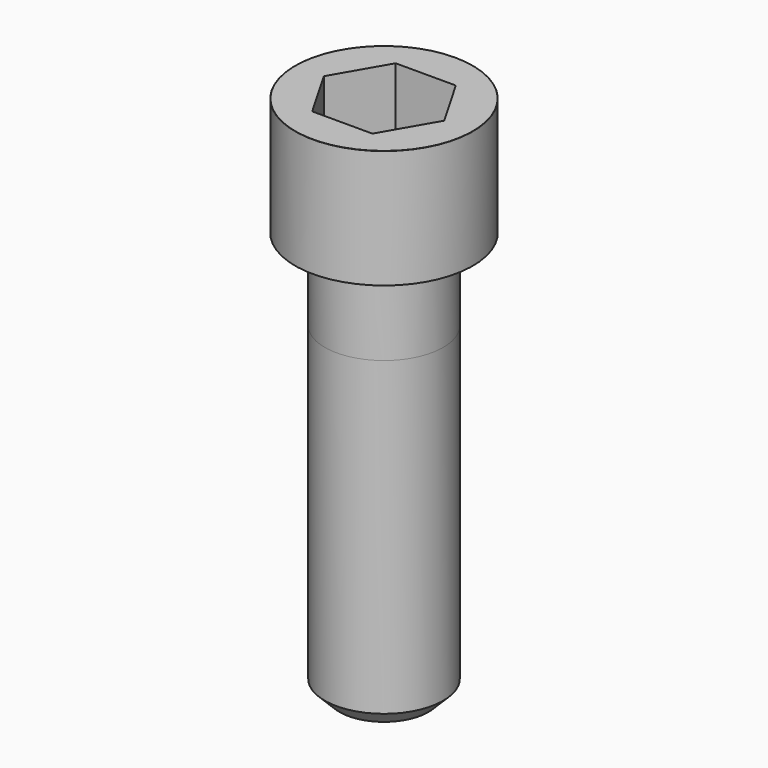
from build123d import *

# Parameters (mm, degrees)
POCKET_DEPTH = 14.08


with BuildPart() as part:
    # Sketch → Revolve (revolve)
    with BuildSketch(Plane.YZ):
        with BuildLine():
            Line((7.999, 0), (12, 0))
            Line((12, 0), (12, 15.97229))
            ThreePointArc((12, 15.97229), (11.991884, 15.991884), (11.97229, 16))
            Line((11.97229, 16), (0, 16))
            Line((0, -55), (0, 16))
            Line((6, -55), (0, -55))
            Line((8, -53), (6, -55))
            Line((8, -11), (8, -53))
            Line((7.999, 0), (8, -11))
        make_face()
    revolve(axis=Axis((0, 0, 0), (0, 0, 1)))

    # Sketch001 → Pocket (cut)
    with BuildSketch(Plane.XY.offset(16)):
        Polygon((8.129092, 0), (4.064546, 7.04), (-4.064546, 7.04), (-8.129092, 0), (-4.064546, -7.04), (4.064546, -7.04), align=None)
    extrude(amount=-POCKET_DEPTH, mode=Mode.SUBTRACT)


solid = part.part
